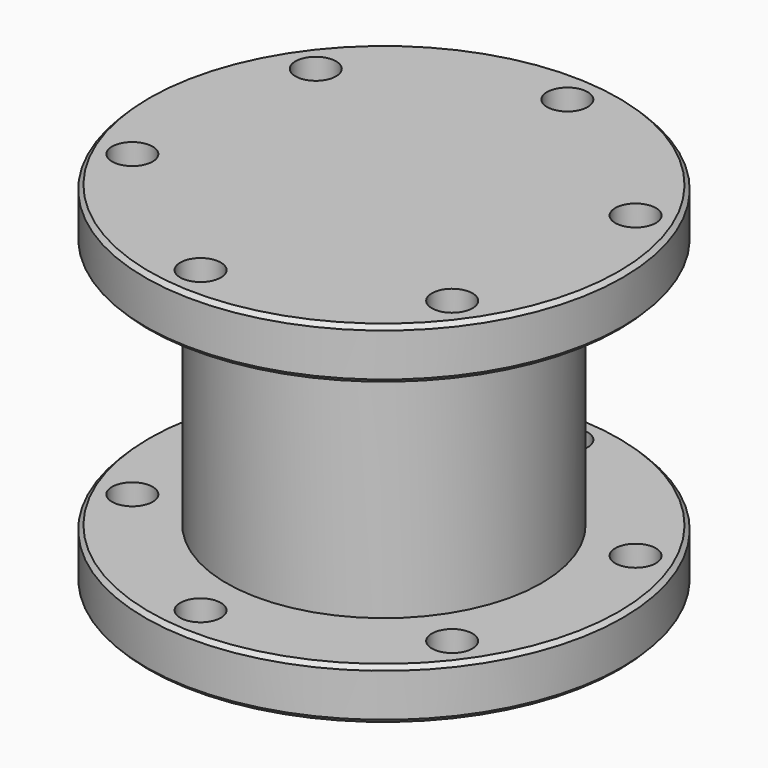
from build123d import *

# Parameters (mm, degrees)
F0_R     = 74.6125
F1_DEPTH = 16.002
F2_R     = 49.2125
F3_DEPTH = 77.597
F4_R     = 74.6125
F5_DEPTH = 16.002
F6_SIZE  = 1.27
F8_D     = 12.7
F8_DEPTH = 127


with BuildPart() as f1:
    # F0 (on Top) → F1 (new body)
    with BuildSketch(Plane.XY):
        Circle(F0_R)
    extrude(amount=F1_DEPTH)

    # F2 (on face) → F3 (join)
    with BuildSketch(Plane.XY.offset(16.002)):
        Circle(F2_R)
    extrude(amount=F3_DEPTH)

    # F4 (on face) → F5 (join)
    with BuildSketch(Plane.XY.offset(93.599)):
        Circle(F4_R)
    extrude(amount=F5_DEPTH)

    # F6
    f6_edges = [f1.edges().sort_by_distance(p)[0] for p in [
        (-74.6125, 0, 93.599),
        (-74.6125, 0, 109.601),
        (-74.6125, 0, 16.002),
        (-74.6125, 0, 0),
    ]]
    chamfer(f6_edges, length=F6_SIZE)

    # F8
    with Locations(Plane(origin=(0, 0, 0), x_dir=(1, 0, 0), z_dir=(0, 0, -1))):
        with Locations((-51.276663, -37.456026), (-58.076201, 25.67888), (-6.799538, 63.134905), (51.276663, 37.456026), (58.076201, -25.67888), (6.799538, -63.134905)):
            Hole(F8_D / 2, depth=F8_DEPTH)


solid = f1.part
